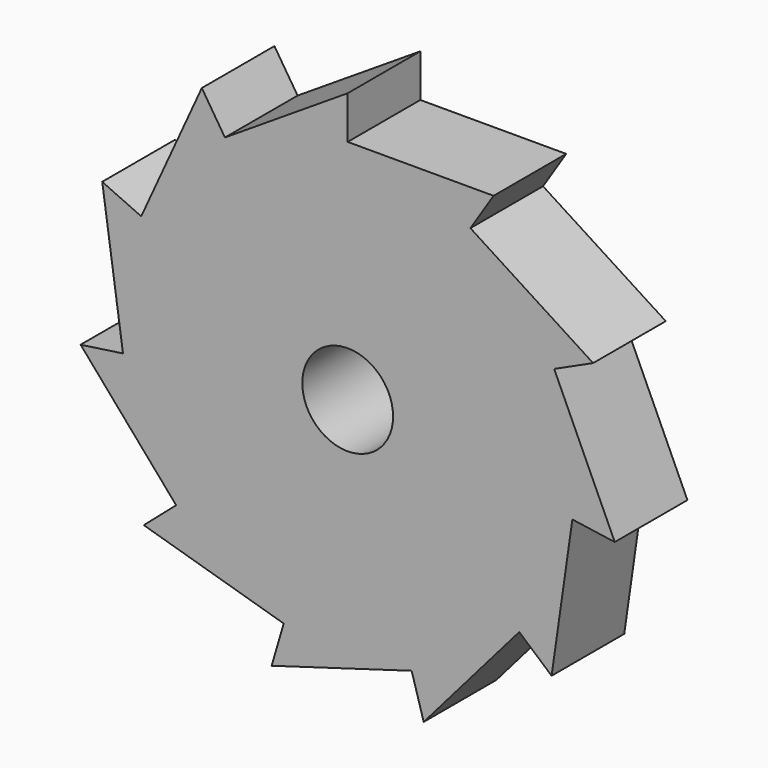
from build123d import *

# Parameters (mm, degrees)
F0_R     = 5
F1_DEPTH = 10


with BuildPart() as f1:
    # F0 (on Front) → F1 (new body)
    with BuildSketch(Plane.XZ):
        Polygon((-22.7408, 10.385375), (-27.032041, 12.345119), (-24.745536, -3.557871), (-29.415075, -4.229249), (-18.893739, -16.371518), (-22.459031, -19.460861), (-7.043314, -23.987324), (-8.372403, -28.513787), (7.043314, -23.987324), (8.372403, -28.513787), (18.893739, -16.371518), (22.459031, -19.460861), (24.745536, -3.557871), (29.415075, -4.229249), (22.7408, 10.385375), (27.032041, 12.345119), (13.51602, 21.031338), (16.066524, 25), (0, 25), (0, 29.717557), (-13.51602, 21.031338), (-16.066524, 25), align=None)
        Circle(F0_R, mode=Mode.SUBTRACT)
    extrude(amount=F1_DEPTH)


solid = f1.part
